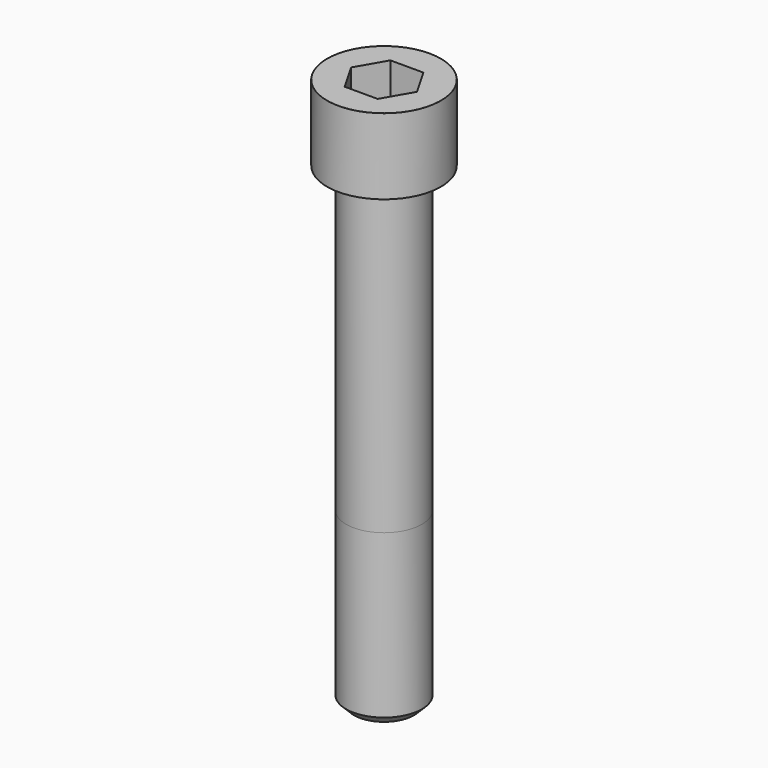
from build123d import *

# Parameters (mm, degrees)
POCKET_DEPTH = 36.15


with BuildPart() as part:
    # Sketch → Revolve (revolve)
    with BuildSketch(Plane.YZ):
        with BuildLine():
            Line((23.999, 0), (36, 0))
            Line((36, 0), (36, 47.97229))
            ThreePointArc((36, 47.97229), (35.991884, 47.991884), (35.97229, 48))
            Line((35.97229, 48), (0, 48))
            Line((0, -300), (0, 48))
            Line((19, -300), (0, -300))
            Line((24, -295), (19, -300))
            Line((24, -192), (24, -295))
            Line((23.999, 0), (24, -192))
        make_face()
    revolve(axis=Axis((0, 0, 0), (0, 0, 1)))

    # Sketch001 → Pocket (cut)
    with BuildSketch(Plane.XY.offset(48)):
        Polygon((20.871212, 0), (10.435606, 18.075), (-10.435606, 18.075), (-20.871212, 0), (-10.435606, -18.075), (10.435606, -18.075), align=None)
    extrude(amount=-POCKET_DEPTH, mode=Mode.SUBTRACT)


solid = part.part
